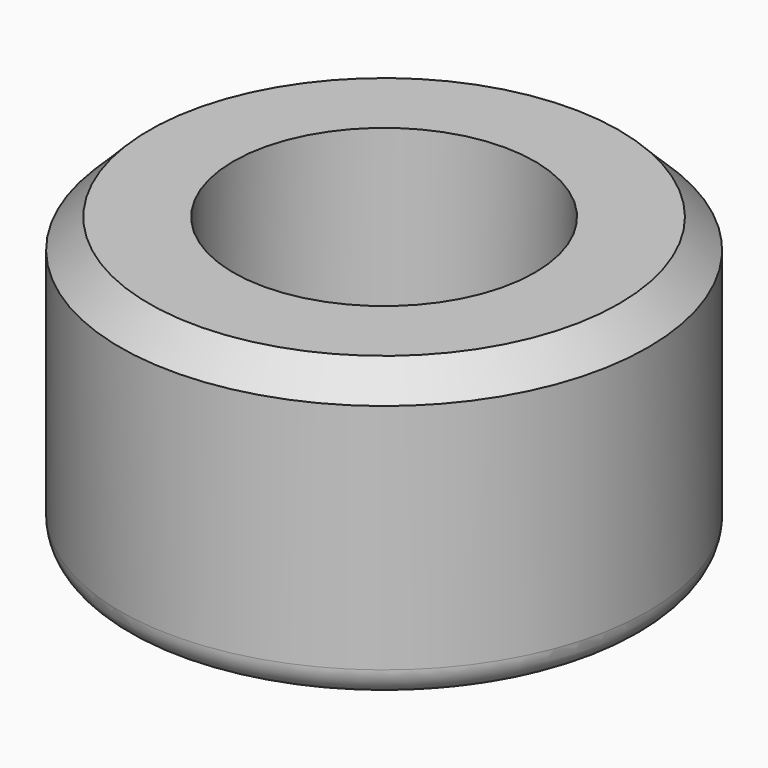
from build123d import *

# Parameters (mm, degrees)
F0_R     = 46.181054
F0_R_2   = 26.367937
F1_DEPTH = 50.8
F2_SIZE  = 5.08
F3_R     = 5.08


with BuildPart() as f1:
    # F0 (on Top) → F1 (new body)
    with BuildSketch(Plane.XY):
        Circle(F0_R)
        Circle(F0_R_2, mode=Mode.SUBTRACT)
        Circle(F0_R)
        Circle(F0_R_2, mode=Mode.SUBTRACT)
    extrude(amount=F1_DEPTH)

    # F2
    f2_edges = [f1.edges().sort_by_distance(p)[0] for p in [
        (-46.181054, 0, 50.8),
    ]]
    chamfer(f2_edges, length=F2_SIZE)

    # F3
    f3_edges = [f1.edges().sort_by_distance(p)[0] for p in [
        (-46.181054, 0, 0),
    ]]
    fillet(f3_edges, radius=F3_R)


solid = f1.part
